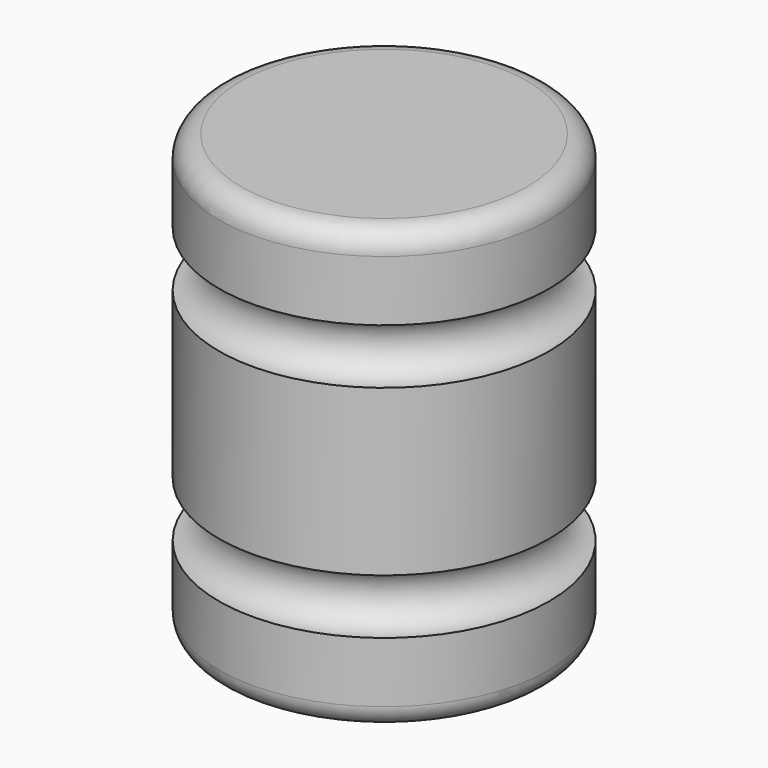
from build123d import *

# Parameters (mm, degrees)
F2_R = 5.08


with BuildPart() as f1:
    # F0 (on Front) → F1 (revolve)
    with BuildSketch(Plane.XZ):
        with BuildLine():
            Line((-38.1, 0), (0, 0))
            Line((0, 0), (0, 19.05))
            ThreePointArc((0, 19.05), (-6.35, 25.4), (0, 31.75))
            Line((0, 31.75), (0, 69.85))
            ThreePointArc((0, 69.85), (-6.35, 76.2), (0, 82.55))
            Line((0, 82.55), (0, 101.6))
            Line((0, 101.6), (-38.1, 101.6))
            Line((-38.1, 101.6), (-38.1, 0))
        make_face()
    revolve(axis=Axis((-38.1, 0, 50.8), (0, 0, 1)))

    # F2
    f2_edges = [f1.edges().sort_by_distance(p)[0] for p in [
        (-76.2, 0, 101.6),
        (-76.2, 0, 0),
    ]]
    fillet(f2_edges, radius=F2_R)


solid = f1.part
